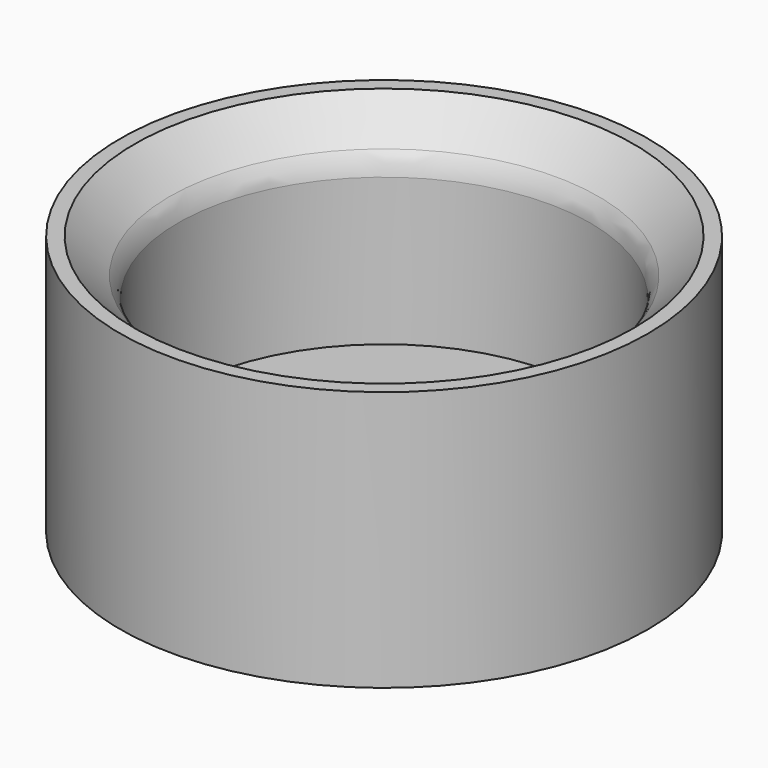
from build123d import *

# Parameters (mm, degrees)
SKETCH_R      = 9.125
PAD_DEPTH     = 2
SKETCH001_R   = 9.125
SKETCH001_R_2 = 7.125
PAD001_DEPTH  = 7
CHAMFER_SIZE  = 1.5
FILLET_R      = 1


with BuildPart() as part:
    # Sketch → Pad (new body)
    with BuildSketch(Plane.XY):
        Circle(SKETCH_R)
    extrude(amount=PAD_DEPTH)

    # Sketch001 (on Face3 of Pad) → Pad001 (join)
    with BuildSketch(Plane.XY.offset(2)):
        Circle(SKETCH001_R)
        Circle(SKETCH001_R_2, mode=Mode.SUBTRACT)
    extrude(amount=PAD001_DEPTH)

    # Chamfer
    chamfer_edges = [part.edges().sort_by_distance(p)[0] for p in [
        (-7.125, 0, 9),
    ]]
    chamfer(chamfer_edges, length=CHAMFER_SIZE)

    # Fillet
    fillet_edges = [part.edges().sort_by_distance(p)[0] for p in [
        (-7.125, 0, 7.5),
    ]]
    fillet(fillet_edges, radius=FILLET_R)


solid = part.part
